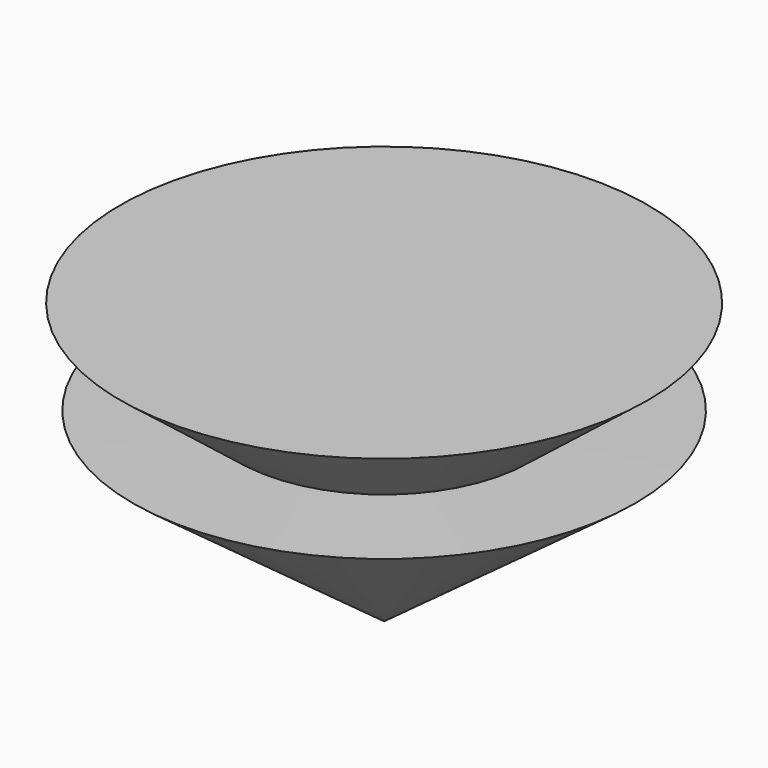
from build123d import *


with BuildPart() as f1:
    # F0 (on Front) → F1 (revolve)
    with BuildSketch(Plane.XZ):
        Polygon((0, 38.749728), (0, 0), (34.711026, 25.651228), (20.084364, 25.869537), (36.45749, 38.749728), align=None)
        Polygon((0, 38.749728), (0, 0), (34.711026, 25.651228), (20.084364, 25.869537), (36.45749, 38.749728), align=None)
    revolve(axis=Axis((0, 0, 19.374864), (0, 0, -1)))


solid = f1.part
